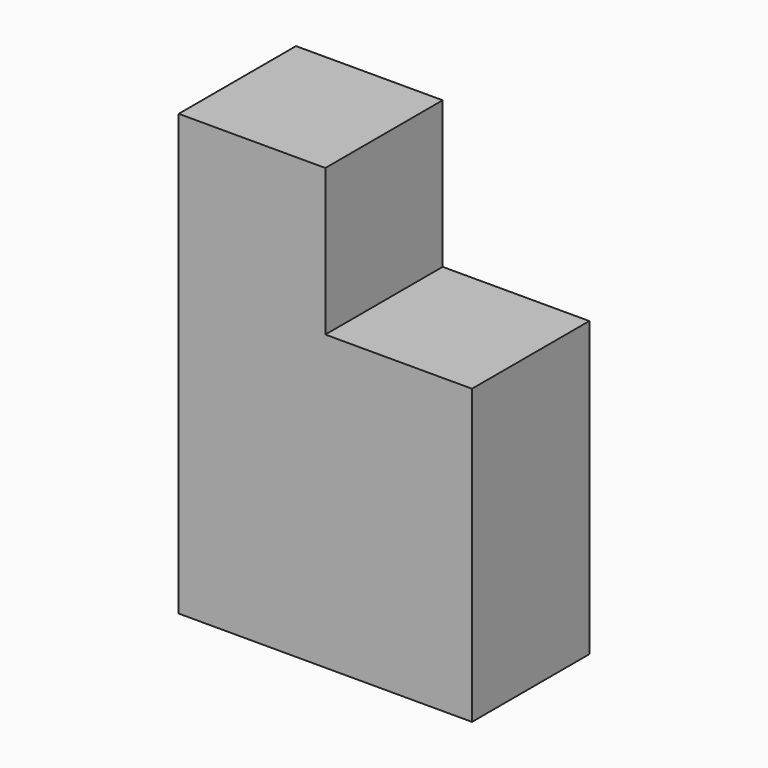
from build123d import *

# Parameters (mm, degrees)
F0_W     = 19.05
F0_H     = 19.05
F1_DEPTH = 19.05
F2_W     = 19.05
F2_H     = 19.05
F3_DEPTH = 19.05
F4_W     = 19.05
F4_H     = 38.1
F5_DEPTH = 19.05
F6_W     = 19.05
F6_H     = 19.05
F7_DEPTH = 19.05
F8_W     = 19.05
F8_H     = 19.05
F9_DEPTH = 19.05


with BuildPart() as f1:
    # F0 (on Top) → F1 (new body)
    with BuildSketch(Plane.XY):
        with Locations((9.525, 9.525)):
            Rectangle(F0_W, F0_H)
    extrude(amount=F1_DEPTH)

    # F2 (on face) → F3 (join)
    with BuildSketch(Plane.XY.offset(19.05)):
        with Locations((9.525, 9.525)):
            Rectangle(F2_W, F2_H)
    extrude(amount=F3_DEPTH)

    # F4 (on face) → F5 (join)
    with BuildSketch(Plane.YZ.offset(19.05)):
        with Locations((9.525, 19.05)):
            Rectangle(F4_W, F4_H)
    extrude(amount=F5_DEPTH)

    # F6 (on face) → F7 (join)
    with BuildSketch(Plane.XY.offset(38.1)):
        with Locations((9.525, 9.525)):
            Rectangle(F6_W, F6_H)
    extrude(amount=F7_DEPTH)

    # F8 (on face) → F9 (join)
    with BuildSketch(Plane(origin=(0, 19.05, 0), x_dir=(-1, 0, 0), z_dir=(0, 1, 0))):
        with Locations((-9.525, 9.525)):
            Rectangle(F8_W, F8_H)
    extrude(amount=F9_DEPTH)


solid = f1.part
